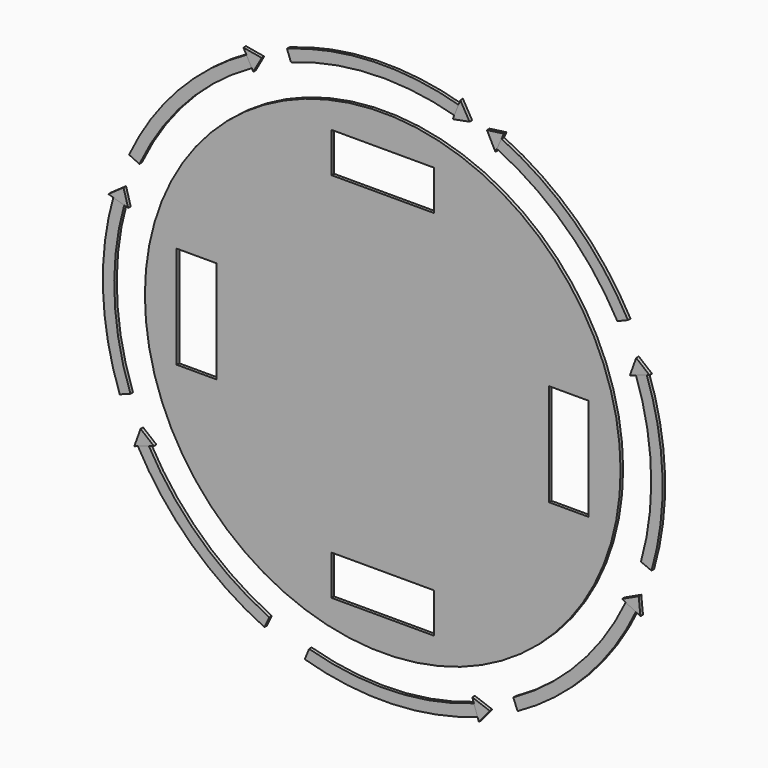
from build123d import *

# Parameters (mm, degrees)
F2_DEPTH = 1
F0_R     = 75
F3_DEPTH = 1
F4_COUNT = 8
F6_DEPTH = 1
F7_W     = 12.593314
F7_H     = 32.243814
F7_W_2   = 32.243814
F7_H_2   = 12.593314
F8_DEPTH = 1


with BuildPart() as f2:
    # F1 (on Front) → F2 (new body)
    with BuildSketch(Plane.XZ):
        with BuildLine():
            ThreePointArc((-28.956208, 79.556559), (-3.018378, 84.608495), (23.21351, 81.417695))
            Line((23.21351, 81.417695), (24.591292, 84.753011))
            ThreePointArc((24.591292, 84.753011), (-2.941119, 88.199514), (-30.182767, 82.926504))
            Line((-30.182767, 82.926504), (-28.956208, 79.556559))
        make_face()
    extrude(amount=F2_DEPTH)


with BuildPart() as f3:
    # F0 (on Front) → F3 (new body)
    with BuildSketch(Plane.XZ):
        Circle(F0_R)
    extrude(amount=F3_DEPTH)

    # F7 (on Front) → F8 (cut)
    with BuildSketch(Plane.XZ):
        with Locations((-58.66285, 0)):
            Rectangle(F7_W, F7_H)
        with Locations((0, -58.66285)):
            Rectangle(F7_W_2, F7_H_2)
        with Locations((58.66285, 0)):
            Rectangle(F7_W, F7_H)
        with Locations((0, 58.66285)):
            Rectangle(F7_W_2, F7_H_2)
    extrude(amount=F8_DEPTH, mode=Mode.SUBTRACT)


with BuildPart() as f4_1:
    # F4: instance of F2
    add(f2.part.rotate(Axis((0, 0, 0), (0, 1, 0)), 1 * 360 / F4_COUNT))


with BuildPart() as f4_2:
    # F4: instance of F2
    add(f2.part.rotate(Axis((0, 0, 0), (0, 1, 0)), 2 * 360 / F4_COUNT))


with BuildPart() as f4_3:
    # F4: instance of F2
    add(f2.part.rotate(Axis((0, 0, 0), (0, 1, 0)), 3 * 360 / F4_COUNT))


with BuildPart() as f4_4:
    # F4: instance of F2
    add(f2.part.rotate(Axis((0, 0, 0), (0, 1, 0)), 4 * 360 / F4_COUNT))


with BuildPart() as f4_5:
    # F4: instance of F2
    add(f2.part.rotate(Axis((0, 0, 0), (0, 1, 0)), 5 * 360 / F4_COUNT))


with BuildPart() as f4_6:
    # F4: instance of F2
    add(f2.part.rotate(Axis((0, 0, 0), (0, 1, 0)), 6 * 360 / F4_COUNT))


with BuildPart() as f4_7:
    # F4: instance of F2
    add(f2.part.rotate(Axis((0, 0, 0), (0, 1, 0)), 7 * 360 / F4_COUNT))


with BuildPart() as f6:
    # F5 (on Front) → F6 (new body)
    with BuildSketch(Plane.XZ):
        Polygon((22.076888, 80.35256), (27.392736, 81.362918), (24.464352, 86.411856), align=None)
        Polygon((-40.811451, 73.047464), (-38.168469, 77.769085), (-43.918509, 78.771208), align=None)
        Polygon((-80.26433, 22.403099), (-81.73415, 27.610659), (-86.50865, 24.253375), align=None)
        Polygon((-72.16192, -41.034032), (-76.352861, -37.611302), (-78.338243, -43.099969), align=None)
        Polygon((38.220555, 81.568688), (32.859302, 80.836544), (35.52077, 75.641951), align=None)
        Polygon((84.108539, 29.478977), (79.917599, 32.901706), (77.932216, 27.413039), align=None)
        Polygon((81.257761, -38.37949), (80.714554, -32.995813), (75.429603, -35.473009), align=None)
        Polygon((30.307272, -84.285907), (33.730002, -80.094967), (28.241335, -78.109585), align=None)
    extrude(amount=F6_DEPTH)


solid = Compound([f2.part, f3.part, f4_1.part, f4_2.part, f4_3.part, f4_4.part, f4_5.part, f4_6.part, f4_7.part, f6.part])
